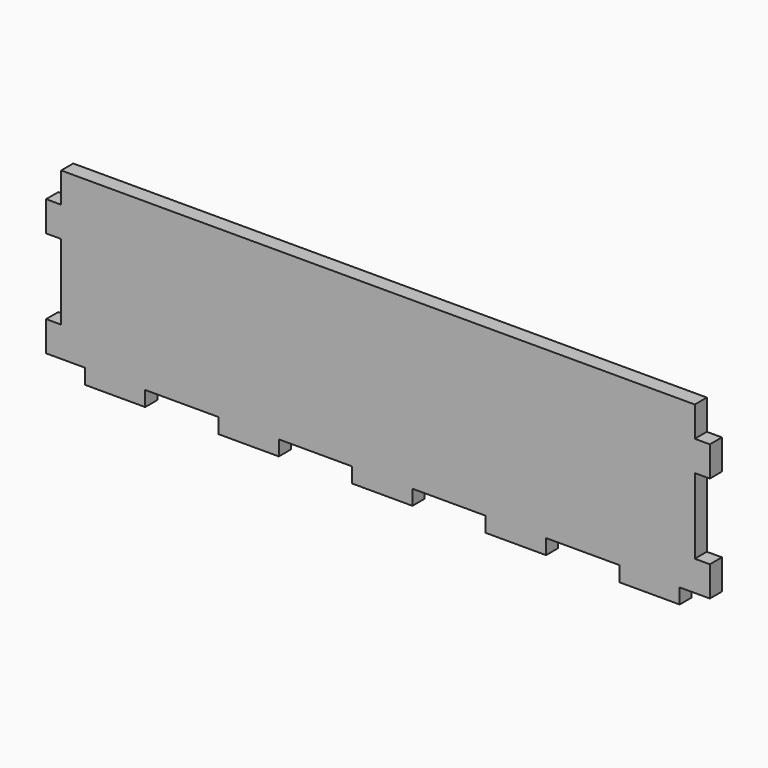
from build123d import *

# Parameters (mm, degrees)
F0_W     = 444.5
F0_H     = 76.2
F1_DEPTH = 6.35
F2_W     = 6.35
F2_H     = 6.35
F2_H_2   = 12.7
F2_H_3   = 31.75
F3_DEPTH = 6.35
F4_W     = 30.842857
F4_H     = 6.35
F4_W_2   = 30.842858
F4_W_3   = 6.35
F5_DEPTH = 6.351
F6_W     = 165.1
F6_H     = 76.2
F7_DEPTH = 6.351
F8_W     = 6.35
F8_H     = 12.7
F8_H_2   = 31.75
F9_DEPTH = 6.351


with BuildPart() as f1:
    # F0 (on Front) → F1 (new body)
    with BuildSketch(Plane.XZ):
        with Locations((222.25, 38.1)):
            Rectangle(F0_W, F0_H)
    extrude(amount=F1_DEPTH)

    # F2 (on face) → F3 (cut, through all)
    with BuildSketch(Plane.XZ.offset(6.35)):
        with Locations((3.175, 3.175)):
            Rectangle(F2_W, F2_H)
        with Locations((3.175, 69.85)):
            Rectangle(F2_W, F2_H_2)
        with Locations((3.175, 34.925)):
            Rectangle(F2_W, F2_H_3)
        with Locations((441.325, 3.175)):
            Rectangle(F2_W, F2_H)
        with Locations((441.325, 34.925)):
            Rectangle(F2_W, F2_H_3)
        with Locations((441.325, 69.85)):
            Rectangle(F2_W, F2_H_2)
    extrude(amount=-F3_DEPTH, mode=Mode.SUBTRACT)

    # F4 (on face) → F5 (cut, through all)
    with BuildSketch(Plane.XZ.offset(6.35)):
        with Locations((53.521428, 3.175)):
            Rectangle(F4_W, F4_H)
        with Locations((109.764285, 3.175)):
            Rectangle(F4_W, F4_H)
        with Locations((166.007142, 3.175)):
            Rectangle(F4_W, F4_H)
        with Locations((222.25, 3.175)):
            Rectangle(F4_W_2, F4_H)
        with Locations((278.492858, 3.175)):
            Rectangle(F4_W, F4_H)
        with Locations((334.735714, 3.175)):
            Rectangle(F4_W, F4_H)
        with Locations((390.978571, 3.175)):
            Rectangle(F4_W, F4_H)
        with Locations((9.525, 3.175)):
            Rectangle(F4_W_3, F4_H)
        with Locations((434.975, 3.175)):
            Rectangle(F4_W_3, F4_H)
    extrude(amount=-F5_DEPTH, mode=Mode.SUBTRACT)

    # F6 (on face) → F7 (cut, through all)
    with BuildSketch(Plane.XZ.offset(6.35)):
        with Locations((82.55, 38.1)):
            Rectangle(F6_W, F6_H)
    extrude(amount=-F7_DEPTH, mode=Mode.SUBTRACT)

    # F8 (on face) → F9 (cut, through all)
    with BuildSketch(Plane.XZ.offset(6.35)):
        with Locations((168.275, 69.85)):
            Rectangle(F8_W, F8_H)
        with Locations((168.275, 34.925)):
            Rectangle(F8_W, F8_H_2)
    extrude(amount=-F9_DEPTH, mode=Mode.SUBTRACT)


solid = f1.part
